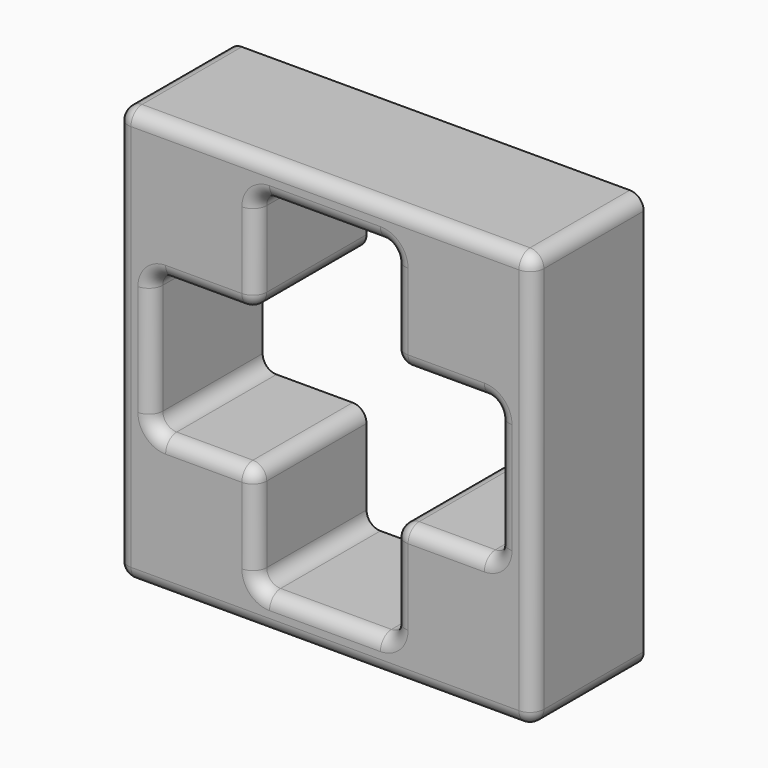
from build123d import *

# Parameters (mm, degrees)
F0_W     = 7.5
F0_H     = 7.5
F0_W_2   = 2.5
F0_H_2   = 2.5
F1_DEPTH = 10
F2_R     = 1
F3_R     = 1


with BuildPart() as f1:
    # F0 (on Front) → F1 (new body)
    with BuildSketch(Plane.XZ):
        Polygon((5, -12.5), (-5, -12.5), (-5, -7.5), (-7.5, -7.5), (-7.5, -15), (7.5, -15), (7.5, -7.5), (5, -7.5), align=None)
        Polygon((-15, -7.5), (-7.5, -7.5), (-7.5, -5), (-12.5, -5), (-12.5, 5), (-7.5, 5), (-7.5, 7.5), (-15, 7.5), align=None)
        with Locations((-11.25, -11.25)):
            Rectangle(F0_W, F0_H)
        with Locations((11.25, -11.25)):
            Rectangle(F0_W, F0_H)
        Polygon((7.5, -5), (7.5, -7.5), (15, -7.5), (15, 7.5), (7.5, 7.5), (7.5, 5), (12.5, 5), (12.5, -5), align=None)
        Polygon((-7.5, 7.5), (-5, 7.5), (-5, 12.5), (5, 12.5), (5, 7.5), (7.5, 7.5), (7.5, 15), (-7.5, 15), align=None)
        with Locations((-11.25, 11.25)):
            Rectangle(F0_W, F0_H)
        with Locations((11.25, 11.25)):
            Rectangle(F0_W, F0_H)
        with Locations((-6.25, 6.25)):
            Rectangle(F0_W_2, F0_H_2)
        with Locations((6.25, 6.25)):
            Rectangle(F0_W_2, F0_H_2)
        with Locations((6.25, -6.25)):
            Rectangle(F0_W_2, F0_H_2)
        with Locations((-6.25, -6.25)):
            Rectangle(F0_W_2, F0_H_2)
    extrude(amount=F1_DEPTH)

    # F2
    f2_edges = [f1.edges().sort_by_distance(p)[0] for p in [
        (-5, -5, 5),
        (-5, -5, 12.5),
        (-12.5, -5, 5),
        (5, -5, 12.5),
        (5, -5, 5),
        (12.5, -5, 5),
        (12.5, -5, -5),
        (5, -5, -5),
        (5, -5, -12.5),
        (-5, -5, -12.5),
        (-5, -5, -5),
        (-12.5, -5, -5),
    ]]
    fillet(f2_edges, radius=F2_R)

    # F3
    f3_edges = [f1.edges().sort_by_distance(p)[0] for p in [
        (15, -10, 0),
        (0, -10, 15),
        (-15, -10, 0),
        (0, -10, -15),
        (-8.75, -10, -5),
        (-15, -5, -15),
        (15, -5, -15),
        (15, -5, 15),
        (-15, -5, 15),
    ]]
    fillet(f3_edges, radius=F3_R)


solid = f1.part
